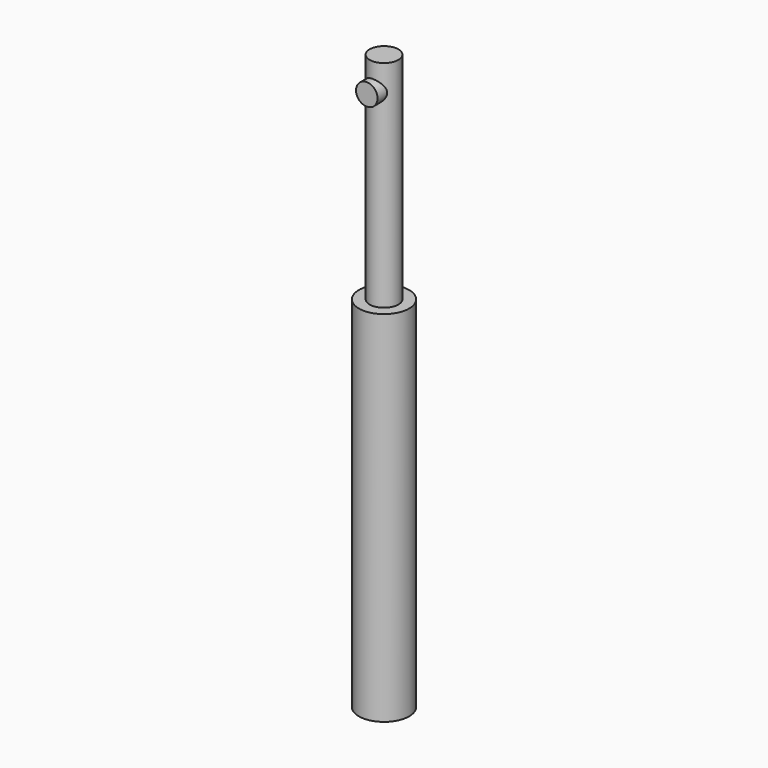
from build123d import *

# Parameters (mm, degrees)
F0_R     = 8.89
F1_DEPTH = 127
F2_R     = 5.08
F3_DEPTH = 76.2
F4_R     = 3.81
F5_DEPTH = 7.62


with BuildPart() as f1:
    # F0 (on Top) → F1 (new body)
    with BuildSketch(Plane.XY):
        Circle(F0_R)
    extrude(amount=-F1_DEPTH)

    # F2 (on Top) → F3 (join)
    with BuildSketch(Plane.XY):
        Circle(F2_R)
    extrude(amount=F3_DEPTH)

    # F4 (on Front) → F5 (join)
    with BuildSketch(Plane.XZ):
        with Locations((0, 66.903524)):
            Circle(F4_R)
    extrude(amount=F5_DEPTH)


solid = f1.part
